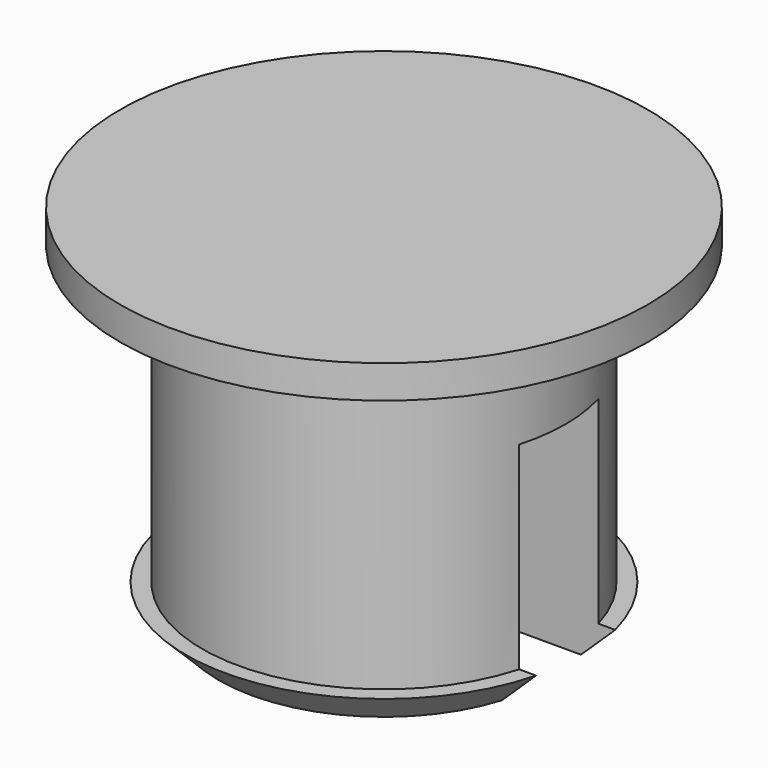
from build123d import *

# Parameters (mm, degrees)
F0_R     = 8
F1_DEPTH = 1
F2_R     = 6
F3_DEPTH = 10
F5_DEPTH = 7
F6_SIZE  = 1
F8_R     = 6
F8_R_2   = 5.5070026954
F9_DEPTH = 9


with BuildPart() as f1:
    # F0 (on Top) → F1 (new body)
    with BuildSketch(Plane.XY):
        Circle(F0_R)
    extrude(amount=F1_DEPTH)

    # F2 (on face) → F3 (join)
    with BuildSketch(Plane(origin=(0, 0, 0), x_dir=(1, 0, 0), z_dir=(0, 0, -1))):
        Circle(F2_R)
    extrude(amount=F3_DEPTH)

    # F4 (on face) → F5 (cut)
    with BuildSketch(Plane(origin=(0, 0, -10), x_dir=(1, 0, 0), z_dir=(0, 0, -1))):
        with BuildLine():
            ThreePointArc((5.8094750193, -1.5), (5.9521781776, -0.7560257549), (6, 0))
            ThreePointArc((6, 0), (5.9521781776, 0.7560257549), (5.8094750193, 1.5))
            Line((5.8094750193, 1.5), (-5.8094750193, 1.5))
            ThreePointArc((-5.8094750193, 1.5), (-6, 0), (-5.8094750193, -1.5))
            Line((-5.8094750193, -1.5), (5.8094750193, -1.5))
        make_face()
    extrude(amount=-F5_DEPTH, mode=Mode.SUBTRACT)

    # F6
    f6_edges = [f1.edges().sort_by_distance(p)[0] for p in [
        (0, 6, -10),
        (0, -6, -10),
    ]]
    chamfer(f6_edges, length=F6_SIZE)

    # F8 (on offset) → F9 (cut)
    with BuildSketch(Plane(origin=(0, 0, -9), x_dir=(1, 0, 0), z_dir=(0, 0, -1))):
        Circle(F8_R)
        Circle(F8_R_2, mode=Mode.SUBTRACT)
        Circle(F8_R)
        Circle(F8_R_2, mode=Mode.SUBTRACT)
    extrude(amount=-F9_DEPTH, mode=Mode.SUBTRACT)


solid = f1.part
